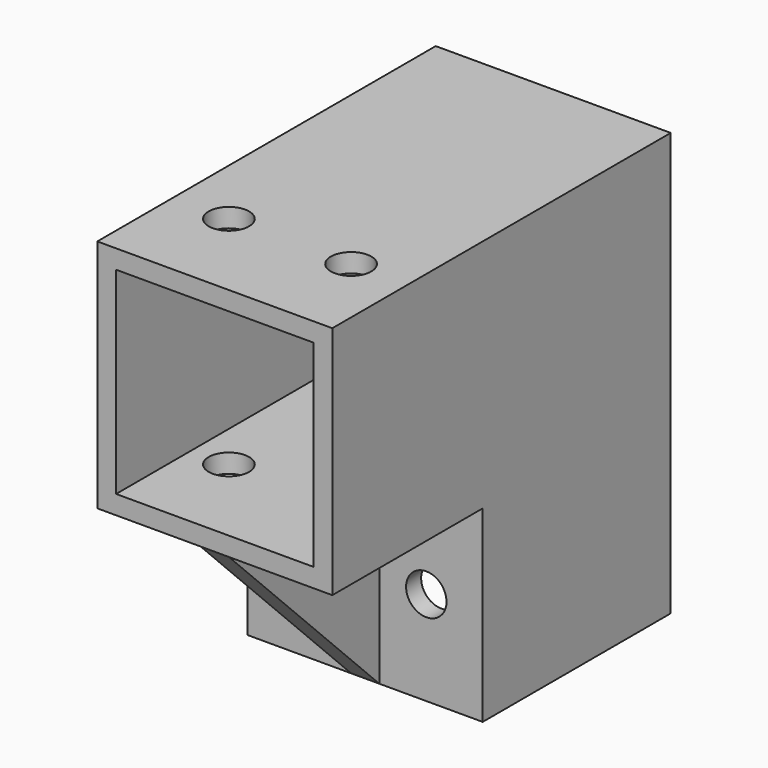
from build123d import *

# Parameters (mm, degrees)
SKETCH_W        = 45
SKETCH_H        = 25
PAD_DEPTH       = 12.5
SKETCH001_W     = 25
SKETCH001_H     = 25
PAD001_DEPTH    = 20
PAD002_DEPTH    = 1.5
SKETCH005_W     = 21
SKETCH005_H     = 21
POCKET_DEPTH    = 43
SKETCH006_W     = 21
SKETCH006_H     = 21
POCKET001_DEPTH = 20
SKETCH007_R     = 2.15
POCKET002_DEPTH = 45.001
SKETCH008_R     = 2.15
POCKET003_DEPTH = 45.001


with BuildPart() as part:
    # Sketch → Pad (new body, symmetric)
    with BuildSketch(Plane.YZ):
        with Locations((2.5, 12.5)):
            Rectangle(SKETCH_W, SKETCH_H)
    extrude(amount=PAD_DEPTH, both=True)

    # Sketch001 (on Face3 of Pad) → Pad001 (join)
    with BuildSketch(Plane.YX):
        with Locations((12.5, 0)):
            Rectangle(SKETCH001_W, SKETCH001_H)
    extrude(amount=PAD001_DEPTH)

    # Sketch004 → Pad002 (join, symmetric)
    with BuildSketch(Plane.YZ):
        Polygon((-20, 0), (0, 0), (0, -20), align=None)
    extrude(amount=PAD002_DEPTH, both=True)

    # Sketch005 (on Face2 of Pad002) → Pocket (cut)
    with BuildSketch(Plane(origin=(0, -20, 0), x_dir=(0, 0, -1), z_dir=(0, -1, 0))):
        with Locations((-12.5, 0)):
            Rectangle(SKETCH005_W, SKETCH005_H)
    extrude(amount=-POCKET_DEPTH, mode=Mode.SUBTRACT)

    # Sketch006 (on Face13 of Pocket) → Pocket001 (cut)
    with BuildSketch(Plane.YX.offset(20)):
        with Locations((12.5, 0)):
            Rectangle(SKETCH006_W, SKETCH006_H)
    extrude(amount=-POCKET001_DEPTH, mode=Mode.SUBTRACT)

    # Sketch007 (on Face3 of Pocket001) → Pocket002 (cut, through all)
    with BuildSketch(Plane.ZX.offset(25)):
        with Locations((-10, 6.5)):
            Circle(SKETCH007_R)
        with Locations((-10, -6.5)):
            Circle(SKETCH007_R)
    extrude(amount=-POCKET002_DEPTH, mode=Mode.SUBTRACT)

    # Sketch008 (on Face1 of Pocket002) → Pocket003 (cut, through all)
    with BuildSketch(Plane(origin=(0, 0, 25), x_dir=(0, -1, 0), z_dir=(0, 0, 1))):
        with Locations((10, 6.5)):
            Circle(SKETCH008_R)
        with Locations((10, -6.5)):
            Circle(SKETCH008_R)
    extrude(amount=-POCKET003_DEPTH, mode=Mode.SUBTRACT)


solid = part.part
